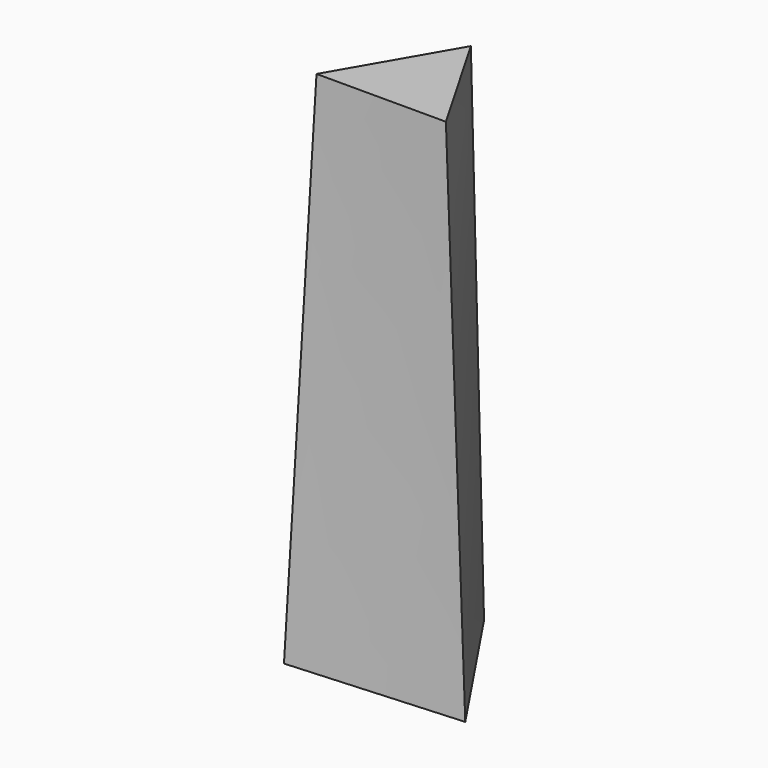
from build123d import *


with BuildPart() as f3:
    # F2 (on offset) → F3 section 0
    with BuildSketch(Plane.XY.offset(76.2)):
        Polygon((-9.525, -5.499261), (9.525, -5.499261), (0, 10.998523), align=None)
    # F0 (on Top) → F3 section 1
    with BuildSketch(Plane.XY):
        Polygon((13.156453, -6.477738), (-0.968341, 14.632691), (-12.188112, -8.154953), align=None)
    loft()


solid = f3.part
